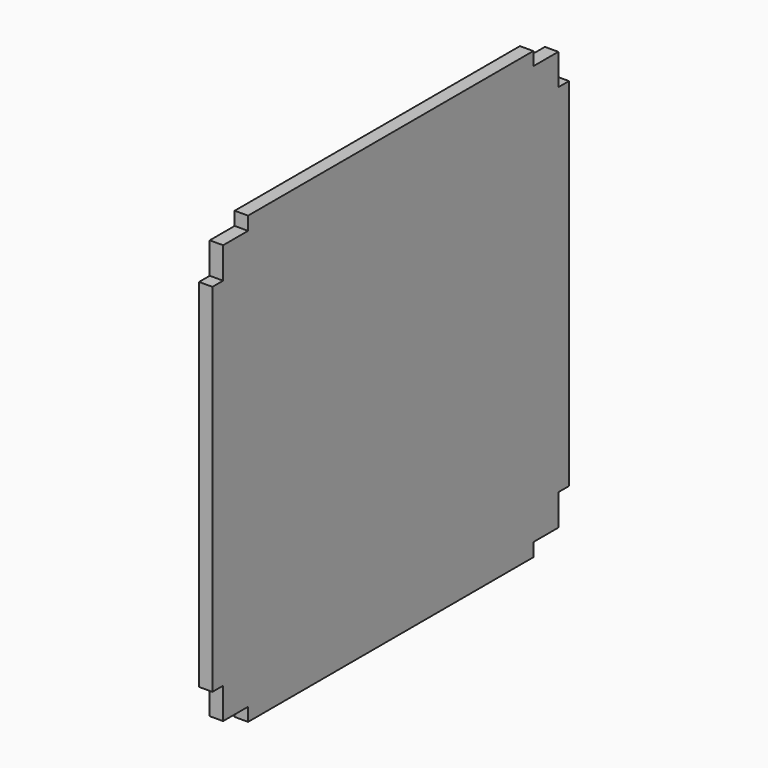
from build123d import *

# Parameters (mm, degrees)
F1_DEPTH = 3


with BuildPart() as f1:
    # F0 (on Right) → F1 (new body)
    with BuildSketch(Plane.YZ):
        Polygon((10, 3), (10, 0), (90, 0), (90, 3), (97, 3), (97, 10), (100, 10), (100, 90), (97, 90), (97, 97), (90, 97), (90, 100), (10, 100), (10, 97), (3, 97), (3, 90), (0, 90), (0, 10), (3, 10), (3, 3), align=None)
    extrude(amount=F1_DEPTH)


solid = f1.part
